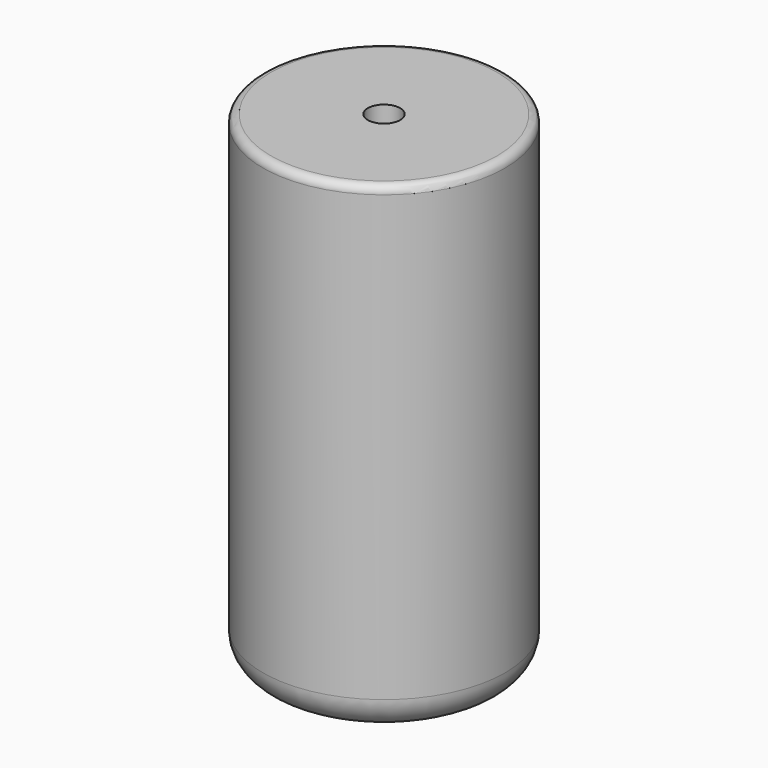
from build123d import *

# Parameters (mm, degrees)
F0_R     = 7.5
F0_R_2   = 1
F1_DEPTH = 30
F2_DEPTH = 20
F3_R     = 2
F4_R     = 0.5


with BuildPart() as f1:
    # F0 (on Top) → F1 (new body)
    with BuildSketch(Plane.XY):
        Circle(F0_R)
        Circle(F0_R_2, mode=Mode.SUBTRACT)
    extrude(amount=F1_DEPTH)

    # F0 (on Top) → F2 (join)
    with BuildSketch(Plane.XY):
        Circle(F0_R_2)
    extrude(amount=F2_DEPTH)

    # F3
    f3_edges = [f1.edges().sort_by_distance(p)[0] for p in [
        (-7.5, 0, 0),
    ]]
    fillet(f3_edges, radius=F3_R)

    # F4
    f4_edges = [f1.edges().sort_by_distance(p)[0] for p in [
        (-7.5, 0, 30),
    ]]
    fillet(f4_edges, radius=F4_R)


solid = f1.part
